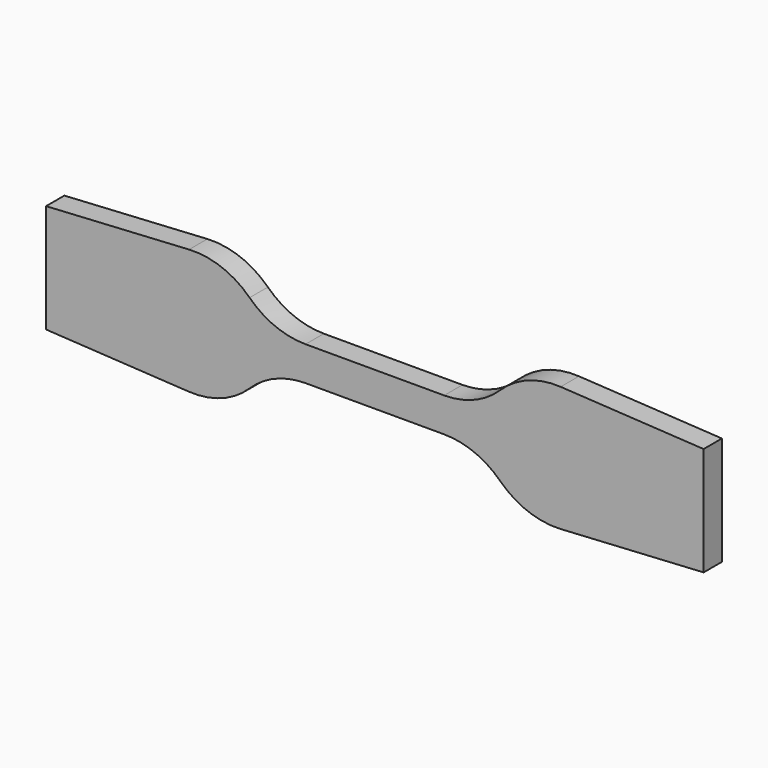
from build123d import *

# Parameters (mm, degrees)
F1_DEPTH = 2


with BuildPart() as f1:
    # F0 (on Front) → F1 (new body, symmetric)
    with BuildSketch(Plane.XZ):
        with BuildLine():
            Line((12.124539, 2.9972), (0, 2.9972))
            Line((0, 2.9972), (-12.124539, 2.9972))
            ThreePointArc((-12.124539, 2.9972), (-17.406568, 4.032223), (-21.907339, 6.984201))
            ThreePointArc((-21.907339, 6.984201), (-26.785135, 10.083517), (-32.4993, 10.947792))
            Line((-32.4993, 10.947792), (-57.5056, 9.4996))
            Line((-57.5056, 9.4996), (-57.5056, 0))
            Line((-57.5056, 0), (-57.5056, -9.4996))
            Line((-57.5056, -9.4996), (-32.4993, -10.947792))
            ThreePointArc((-32.4993, -10.947792), (-26.785135, -10.083517), (-21.907339, -6.984201))
            ThreePointArc((-21.907339, -6.984201), (-17.406568, -4.032223), (-12.124539, -2.9972))
            Line((-12.124539, -2.9972), (0, -2.9972))
            Line((0, -2.9972), (12.124539, -2.9972))
            ThreePointArc((12.124539, -2.9972), (17.406568, -4.032223), (21.907339, -6.984201))
            ThreePointArc((21.907339, -6.984201), (26.785135, -10.083517), (32.4993, -10.947792))
            Line((32.4993, -10.947792), (57.5056, -9.4996))
            Line((57.5056, -9.4996), (57.5056, 0))
            Line((57.5056, 0), (57.5056, 9.4996))
            Line((57.5056, 9.4996), (32.4993, 10.947792))
            ThreePointArc((32.4993, 10.947792), (26.785135, 10.083517), (21.907339, 6.984201))
            ThreePointArc((21.907339, 6.984201), (17.406568, 4.032223), (12.124539, 2.9972))
        make_face()
    extrude(amount=F1_DEPTH, both=True)


solid = f1.part
